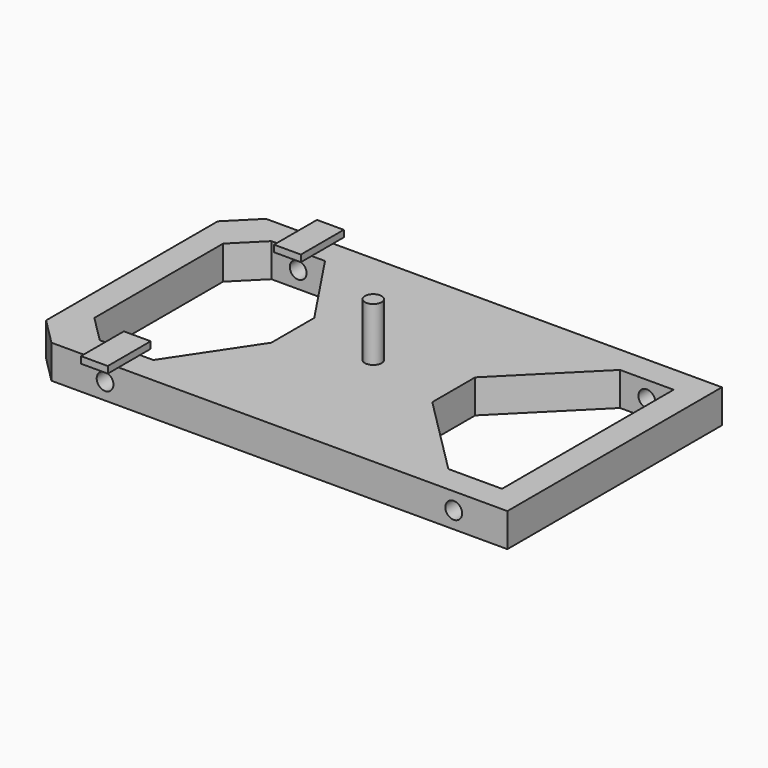
from build123d import *

# Parameters (mm, degrees)
F1_DEPTH  = 15.875
F2_R      = 3.96875
F3_DEPTH  = 127
F5_DEPTH  = 15.876
F7_DEPTH  = 25.4
F8_R      = 3.96875
F9_DEPTH  = 25.4
F10_W     = 12.7
F10_H     = 25.4
F11_DEPTH = 3.175


with BuildPart() as f1:
    # F0 (on Top) → F1 (new body)
    with BuildSketch(Plane.XY):
        Polygon((-101.6, 63.5), (-114.3, 50.8), (-114.3, -50.8), (-101.6, -63.5), (114.3, -63.5), (114.3, 63.5), align=None)
    extrude(amount=F1_DEPTH)

    # F2 (on Front) → F3 (cut, symmetric)
    with BuildSketch(Plane.XZ):
        with Locations((-76.2, 7.9375)):
            Circle(F2_R)
        with Locations((88.9, 7.9375)):
            Circle(F2_R)
    extrude(amount=F3_DEPTH, both=True, mode=Mode.SUBTRACT)

    # F4 (on face) → F5 (cut, through all)
    with BuildSketch(Plane.XY.offset(15.875)):
        Polygon((76.2, 50.8), (38.1, 12.7), (38.1, -12.7), (76.2, -50.8), (101.6, -50.8), (101.6, 50.8), align=None)
    extrude(amount=-F5_DEPTH, mode=Mode.SUBTRACT)

    # F6 (on face) → F7 (cut)
    with BuildSketch(Plane.XY.offset(15.875)):
        Polygon((-38.1, -12.7), (-38.1, 12.7), (-63.5, 50.8), (-88.9, 50.8), (-101.6, 38.1), (-101.6, -38.1), (-88.9, -50.8), (-63.5, -50.8), align=None)
    extrude(amount=-F7_DEPTH, mode=Mode.SUBTRACT)

    # F8 (on face) → F9 (join)
    with BuildSketch(Plane.XY.offset(15.875)):
        Circle(F8_R)
    extrude(amount=F9_DEPTH)

    # F10 (on face) → F11 (join)
    with BuildSketch(Plane.XY.offset(15.875)):
        with Locations((-76.2, 57.15)):
            Rectangle(F10_W, F10_H)
        with Locations((-76.2, -57.15)):
            Rectangle(F10_W, F10_H)
    extrude(amount=F11_DEPTH)


solid = f1.part
